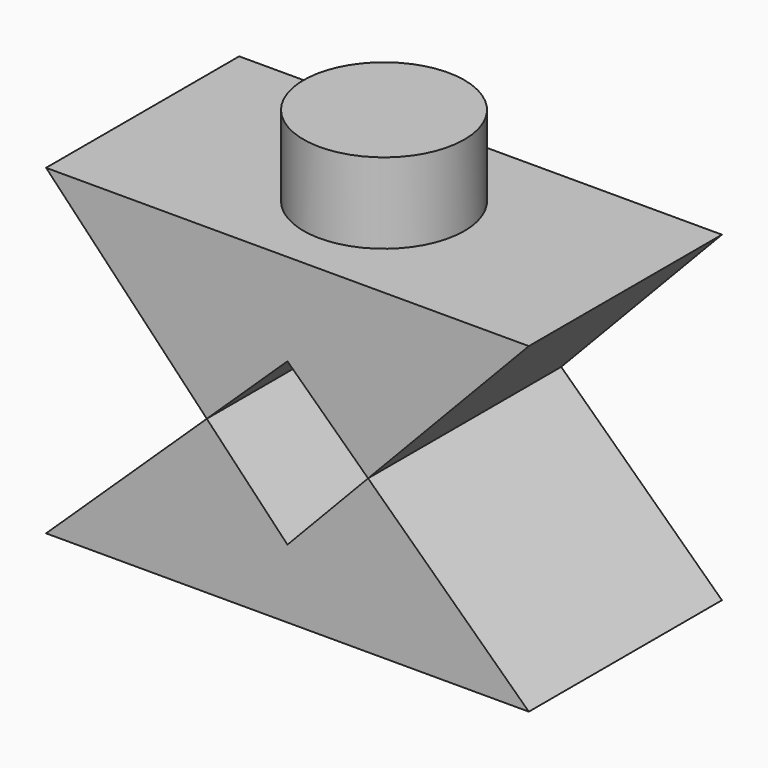
from build123d import *

# Parameters (mm, degrees)
F0_R     = 12.7
F1_DEPTH = 12.7
F4_DEPTH = 19.05


with BuildPart() as f1:
    # F0 (on Top) → F1 (new body)
    with BuildSketch(Plane.XY):
        Circle(F0_R)
    extrude(amount=F1_DEPTH)


with BuildPart() as f1_1:
    # F2: moved
    add(f1.part.moved(Location((0, 0, 50.8))))

    # F3 (on Front) → F4 (join, symmetric)
    with BuildSketch(Plane.XZ):
        Polygon((-38.1, 50.8), (-12.729577, 24.174578), (0, 36.304141), (12.729577, 24.174578), (38.1, 50.8), (0, 50.8), align=None)
        Polygon((-38.1, 0), (0, 0), (38.1, 0), (12.729577, 24.174578), (0, 10.815306), (-12.729577, 24.174578), align=None)
    extrude(amount=F4_DEPTH, both=True)


solid = f1_1.part
